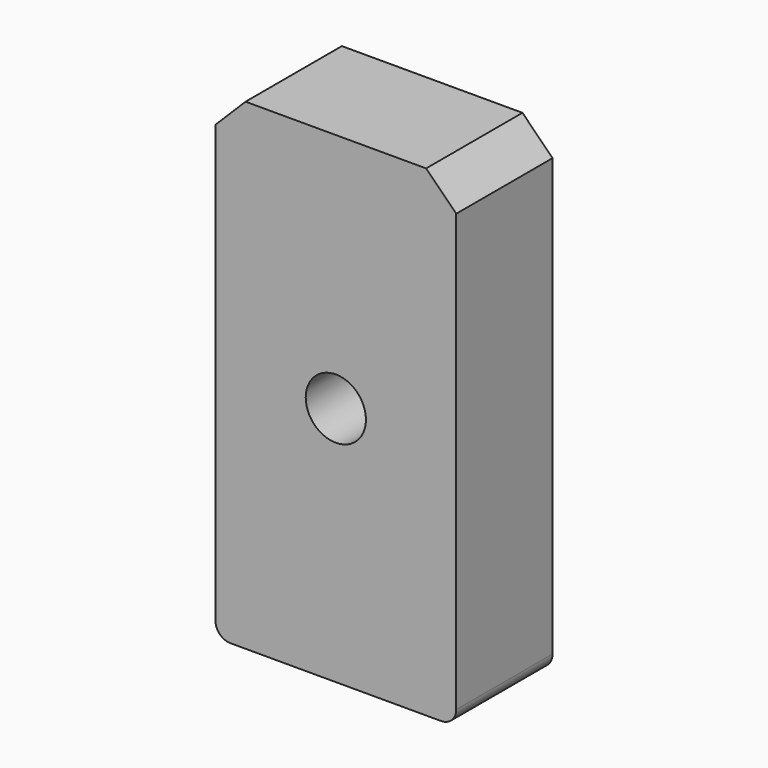
from build123d import *

# Parameters (mm, degrees)
F1_DEPTH = 200
F2_SIZE  = 50
F3_R     = 50
F4_DEPTH = 200.001


with BuildPart() as f1:
    # F0 (on Front) → F1 (new body)
    with BuildSketch(Plane.XZ):
        with BuildLine():
            Line((200, -375), (200, 400))
            Line((200, 400), (-200, 400))
            Line((-200, 400), (-200, -375))
            ThreePointArc((-200, -375), (-192.67767, -392.67767), (-175, -400))
            Line((-175, -400), (175, -400))
            ThreePointArc((175, -400), (192.67767, -392.67767), (200, -375))
        make_face()
    extrude(amount=F1_DEPTH)

    # F2
    f2_edges = [f1.edges().sort_by_distance(p)[0] for p in [
        (200, -100, 400),
        (-200, -100, 400),
    ]]
    chamfer(f2_edges, length=F2_SIZE)

    # F3 (on face) → F4 (cut, through all)
    with BuildSketch(Plane(origin=(0, 0, 0), x_dir=(-1, 0, 0), z_dir=(0, 1, 0))):
        Circle(F3_R)
    extrude(amount=-F4_DEPTH, mode=Mode.SUBTRACT)


solid = f1.part
